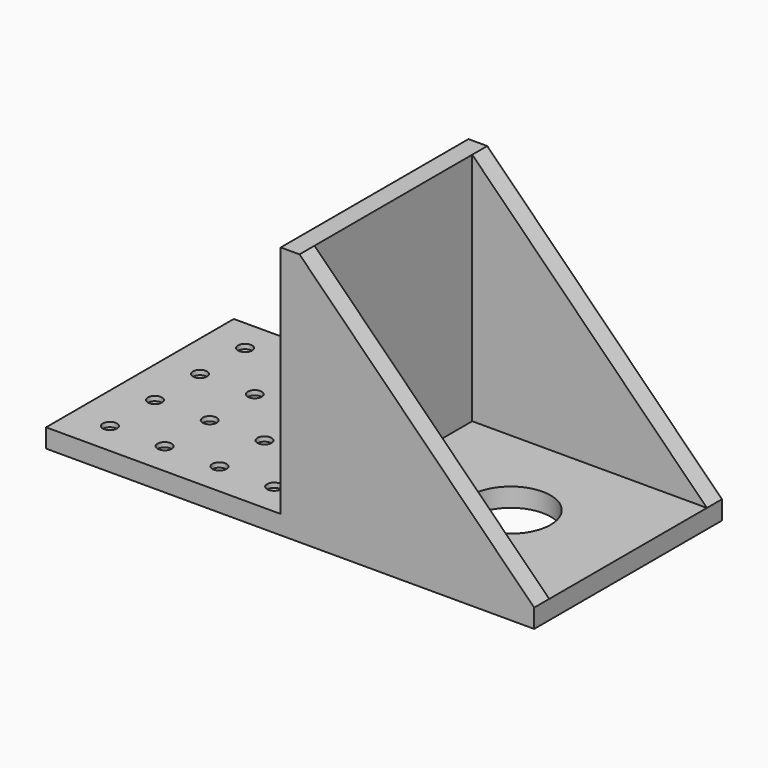
from build123d import *

# Parameters (mm, degrees)
SKETCH_W               = 104
SKETCH_H               = 50
PAD_DEPTH              = 54
SKETCH001_W            = 42
SKETCH001_H            = 50
POCKET_DEPTH           = 50
SKETCH002_W            = 50
SKETCH002_H            = 50
POCKET001_DEPTH        = 50
POCKET002_DEPTH        = 50.001
SKETCH004_R            = 8.5
POCKET003_DEPTH        = 4.001
SKETCH005_R            = 1.5
POCKET004_DEPTH        = 1
LINEARPATTERN_COUNT    = 4
LINEARPATTERN_PITCH    = 11.333333
SKETCH006_R            = 1.5
POCKET005_DEPTH        = 1
LINEARPATTERN001_COUNT = 4
LINEARPATTERN001_PITCH = 11.666667


with BuildPart() as part:
    # Sketch → Pad (new body)
    with BuildSketch(Plane.XY):
        Rectangle(SKETCH_W, SKETCH_H)
    extrude(amount=PAD_DEPTH)

    # Sketch001 (on Face2 of Pad) → Pocket (cut)
    with BuildSketch(Plane.YZ.offset(52)):
        with Locations((0, 29)):
            Rectangle(SKETCH001_W, SKETCH001_H)
    extrude(amount=-POCKET_DEPTH, mode=Mode.SUBTRACT)

    # Sketch002 (on Face5 of Pocket) → Pocket001 (cut)
    with BuildSketch(Plane.XY.offset(54)):
        with Locations((-27, 0)):
            Rectangle(SKETCH002_W, SKETCH002_H)
    extrude(amount=-POCKET001_DEPTH, mode=Mode.SUBTRACT)

    # Sketch003 (on Face8 of Pocket001) → Pocket002 (cut, through all)
    with BuildSketch(Plane.XZ.offset(25)):
        Polygon((52, 54), (2, 54), (52, 4), align=None)
    extrude(amount=-POCKET002_DEPTH, mode=Mode.SUBTRACT)

    # Sketch004 (on Face11 of Pocket002) → Pocket003 (cut, through all)
    with BuildSketch(Plane.XY.offset(4)):
        with Locations((27, 0)):
            Circle(SKETCH004_R)
    extrude(amount=-POCKET003_DEPTH, mode=Mode.SUBTRACT)

    # Sketch005 (on Face6 of Pocket003) → Pocket004 (cut)
    with BuildSketch(Plane(origin=(-2, 0, 0), x_dir=(0, -1, 0), z_dir=(-1, 0, 0))):
        with Locations((-17, 47)):
            Circle(SKETCH005_R)
        with Locations((-17, 35)):
            Circle(SKETCH005_R)
        with Locations((-17, 23)):
            Circle(SKETCH005_R)
        with Locations((-17, 11)):
            Circle(SKETCH005_R)
    pocket004 = extrude(amount=-POCKET004_DEPTH, mode=Mode.SUBTRACT)

    # LinearPattern: Pocket004 ×4
    with Locations(*[(0, -i * LINEARPATTERN_PITCH, 0) for i in range(1, LINEARPATTERN_COUNT)]):
        add(pocket004, mode=Mode.SUBTRACT)

    # Sketch006 (on Face7 of Pocket003) → Pocket005 (cut)
    with BuildSketch(Plane.XY.offset(4)):
        with Locations((-9, 18)):
            Circle(SKETCH006_R)
        with Locations((-9, 6)):
            Circle(SKETCH006_R)
        with Locations((-9, -6)):
            Circle(SKETCH006_R)
        with Locations((-9, -18)):
            Circle(SKETCH006_R)
    pocket005 = extrude(amount=-POCKET005_DEPTH, mode=Mode.SUBTRACT)

    # LinearPattern001: Pocket005 ×4
    with Locations(*[(-i * LINEARPATTERN001_PITCH, 0, 0) for i in range(1, LINEARPATTERN001_COUNT)]):
        add(pocket005, mode=Mode.SUBTRACT)


solid = part.part
